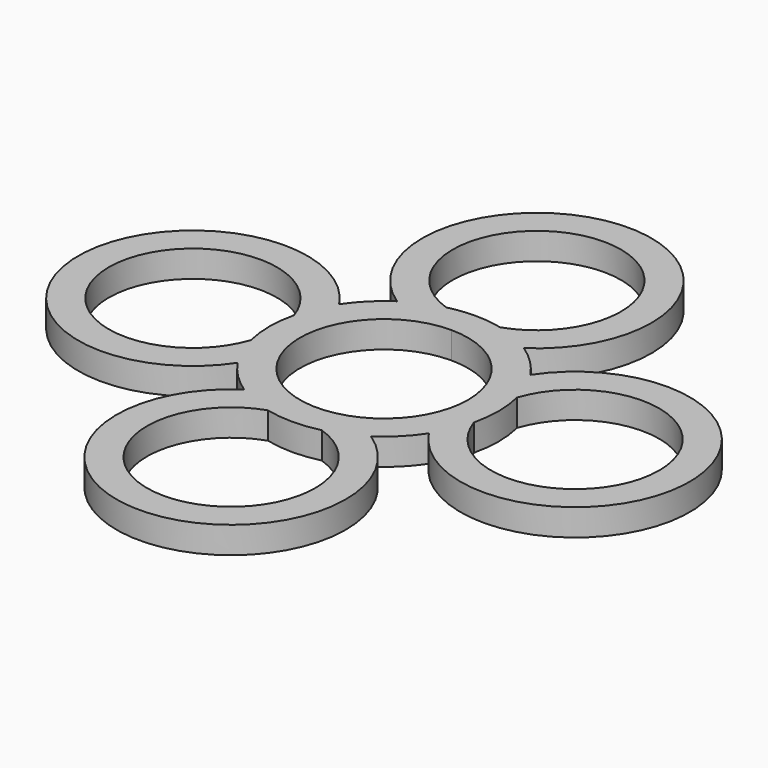
from build123d import *

# Parameters (mm, degrees)
F1_DEPTH = 3.5


with BuildPart() as f1:
    # F0 (on Top) → F1 (new body)
    with BuildSketch(Plane.XY):
        with BuildLine():
            ThreePointArc((8.291562, 12.5), (0, 40), (-8.291562, 12.5))
            ThreePointArc((-8.291562, 12.5), (-10.606602, 10.606602), (-12.5, 8.291562))
            ThreePointArc((-12.5, 8.291562), (-40, 0), (-12.5, -8.291562))
            ThreePointArc((-12.5, -8.291562), (-10.606602, -10.606602), (-8.291562, -12.5))
            ThreePointArc((-8.291562, -12.5), (0, -40), (8.291562, -12.5))
            ThreePointArc((8.291562, -12.5), (10.606602, -10.606602), (12.5, -8.291562))
            ThreePointArc((12.5, -8.291562), (40, 0), (12.5, 8.291562))
            ThreePointArc((12.5, 8.291562), (10.606602, 10.606602), (8.291562, 12.5))
        make_face()
        with BuildLine():
            ThreePointArc((3.524713, -14.58), (0, -36), (-3.524713, -14.58))
            ThreePointArc((-3.524713, -14.58), (0, -15), (3.524713, -14.58))
        make_face(mode=Mode.SUBTRACT)
        with BuildLine():
            ThreePointArc((-14.58, -3.524713), (-36, 0), (-14.58, 3.524713))
            ThreePointArc((-14.58, 3.524713), (-15, 0), (-14.58, -3.524713))
        make_face(mode=Mode.SUBTRACT)
        with BuildLine():
            ThreePointArc((0, 11), (7.778175, 7.778175), (11, 0))
            ThreePointArc((11, 0), (-7.778175, -7.778175), (0, 11))
        make_face(mode=Mode.SUBTRACT)
        with BuildLine():
            ThreePointArc((14.58, 3.524713), (36, 0), (14.58, -3.524713))
            ThreePointArc((14.58, -3.524713), (15, 0), (14.58, 3.524713))
        make_face(mode=Mode.SUBTRACT)
        with BuildLine():
            ThreePointArc((3.524713, 14.58), (1.774824, 14.89463), (0, 15))
            ThreePointArc((0, 15), (-1.774824, 14.89463), (-3.524713, 14.58))
            ThreePointArc((-3.524713, 14.58), (0, 36), (3.524713, 14.58))
        make_face(mode=Mode.SUBTRACT)
    extrude(amount=F1_DEPTH)


solid = f1.part
